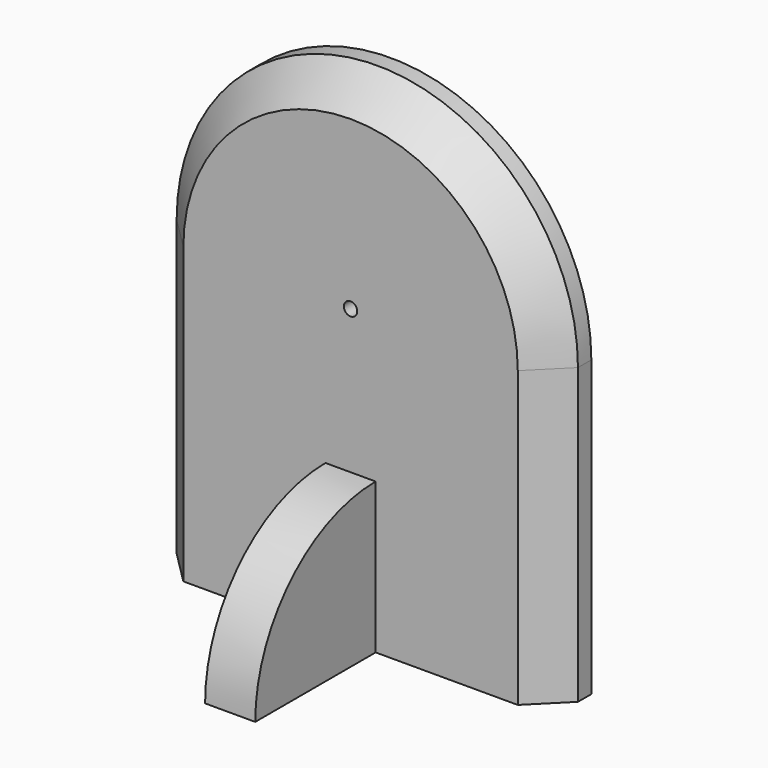
from build123d import *

# Parameters (mm, degrees)
F0_R      = 2
F1_DEPTH  = 15
F4_DEPTH  = 1
F6_DEPTH  = 1
F7_R      = 2
F8_DEPTH  = 1
F9_SIZE   = 10
F11_DEPTH = 7.5


with BuildPart() as f1:
    # F0 (on Front) → F1 (new body)
    with BuildSketch(Plane.XZ):
        with BuildLine():
            Line((-60, 88), (-60, 0))
            Line((-60, 0), (60, 0))
            Line((60, 0), (60, 88))
            ThreePointArc((60, 88), (0, 148), (-60, 88))
        make_face()
        with Locations((0, 88)):
            Circle(F0_R, mode=Mode.SUBTRACT)
    extrude(amount=F1_DEPTH)

    # F9
    f9_edges = [f1.edges().sort_by_distance(p)[0] for p in [
        (0, -15, 148),
    ]]
    chamfer(f9_edges, length=F9_SIZE)


with BuildPart() as f4:
    # F3 (on face) → F4 (new body)
    with BuildSketch(Plane(origin=(0, 0, 0), x_dir=(-1, 0, 0), z_dir=(0, 1, 0))):
        with BuildLine():
            ThreePointArc((3, 82.8038475773), (5.1961524227, 85), (6, 88))
            ThreePointArc((6, 88), (5.1961524227, 91), (3, 93.1961524227))
            Line((3, 93.1961524227), (3, 82.8038475773))
        make_face()
        with BuildLine():
            Line((3, 82.8038475773), (3, 93.1961524227))
            ThreePointArc((3, 93.1961524227), (0, 94), (-3, 93.1961524227))
            Line((-3, 93.1961524227), (-3, 82.8038475773))
            ThreePointArc((-3, 82.8038475773), (0, 82), (3, 82.8038475773))
        make_face()
        with BuildLine():
            ThreePointArc((-3, 93.1961524227), (0, 94), (3, 93.1961524227))
            Line((3, 93.1961524227), (3, 118))
            Line((3, 118), (-3, 118))
            Line((-3, 118), (-3, 93.1961524227))
        make_face()
        with BuildLine():
            Line((3, 78), (3, 82.8038475773))
            ThreePointArc((3, 82.8038475773), (0, 82), (-3, 82.8038475773))
            Line((-3, 82.8038475773), (-3, 78))
            Line((-3, 78), (3, 78))
        make_face()
        with BuildLine():
            Line((-3, 82.8038475773), (-3, 93.1961524227))
            ThreePointArc((-3, 93.1961524227), (-6, 88), (-3, 82.8038475773))
        make_face()
    extrude(amount=F4_DEPTH)


with BuildPart() as f6:
    # F5 (on face) → F6 (new body)
    with BuildSketch(Plane(origin=(0, 1, 0), x_dir=(-1, 0, 0), z_dir=(0, 1, 0))):
        with BuildLine():
            ThreePointArc((3.4641016151, 86), (3.8637033052, 86.9647238196), (4, 88))
            ThreePointArc((4, 88), (3.8637033052, 89.0352761804), (3.4641016151, 90))
            Line((3.4641016151, 90), (-3.4641016151, 90))
            ThreePointArc((-3.4641016151, 90), (-4, 88), (-3.4641016151, 86))
            Line((-3.4641016151, 86), (3.4641016151, 86))
        make_face()
        with BuildLine():
            ThreePointArc((3.4641016151, 90), (3.8637033052, 89.0352761804), (4, 88))
            ThreePointArc((4, 88), (3.8637033052, 86.9647238196), (3.4641016151, 86))
            Line((3.4641016151, 86), (14, 86))
            Line((14, 86), (14, 90))
            Line((14, 90), (3.4641016151, 90))
        make_face()
        with BuildLine():
            Line((-3.4641016151, 90), (3.4641016151, 90))
            ThreePointArc((3.4641016151, 90), (0, 92), (-3.4641016151, 90))
        make_face()
        with BuildLine():
            ThreePointArc((-3.4641016151, 86), (0, 84), (3.4641016151, 86))
            Line((3.4641016151, 86), (-3.4641016151, 86))
        make_face()
        with BuildLine():
            ThreePointArc((-3.4641016151, 86), (-4, 88), (-3.4641016151, 90))
            Line((-3.4641016151, 90), (-36, 90))
            Line((-36, 90), (-36, 86))
            Line((-36, 86), (-3.4641016151, 86))
        make_face()
    extrude(amount=F6_DEPTH)


with BuildPart() as f8:
    # F7 (on face) → F8 (new body)
    with BuildSketch(Plane(origin=(0, 2, 0), x_dir=(-1, 0, 0), z_dir=(0, 1, 0))):
        with Locations((0, 88)):
            Circle(F7_R)
    extrude(amount=F8_DEPTH)


with BuildPart() as f11:
    # F10 (on Right) → F11 (new body, symmetric)
    with BuildSketch(Plane.YZ):
        with BuildLine():
            Line((-60, 0), (-15, 0))
            Line((-15, 0), (-15, 45))
            ThreePointArc((-15, 45), (-46.8198051534, 31.8198051534), (-60, 0))
        make_face()
    extrude(amount=F11_DEPTH, both=True)


solid = Compound([f1.part, f4.part, f6.part, f8.part, f11.part])
